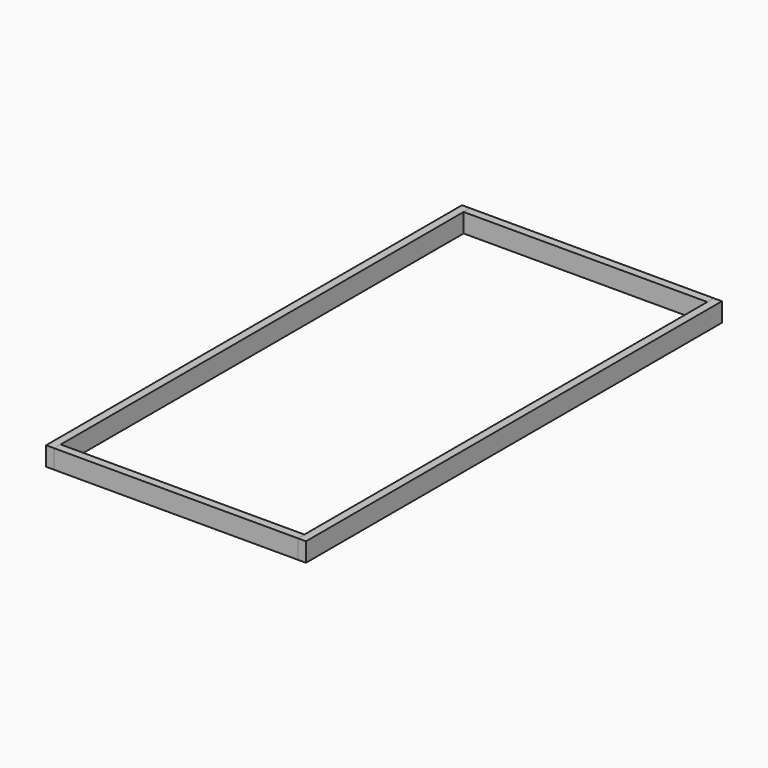
from build123d import *

# Parameters (mm, degrees)
F0_W     = 38.1
F0_H     = 88.9
F1_DEPTH = 1219.2
F2_W     = 38.1
F2_H     = 88.9
F3_DEPTH = 1143


with BuildPart() as f1:
    # F0 (on Front) → F1 (new body, symmetric)
    with BuildSketch(Plane.XZ):
        with Locations((-590.55, 0)):
            Rectangle(F0_W, F0_H)
        with Locations((590.55, 0)):
            Rectangle(F0_W, F0_H)
    extrude(amount=F1_DEPTH, both=True)


with BuildPart() as f3:
    # F2 (on face) → F3 (new body)
    with BuildSketch(Plane.YZ.offset(-571.5)):
        with Locations((-1200.15, 0)):
            Rectangle(F2_W, F2_H)
        with Locations((1200.15, 0)):
            Rectangle(F2_W, F2_H)
    extrude(amount=F3_DEPTH)


solid = Compound([f1.part, f3.part])
